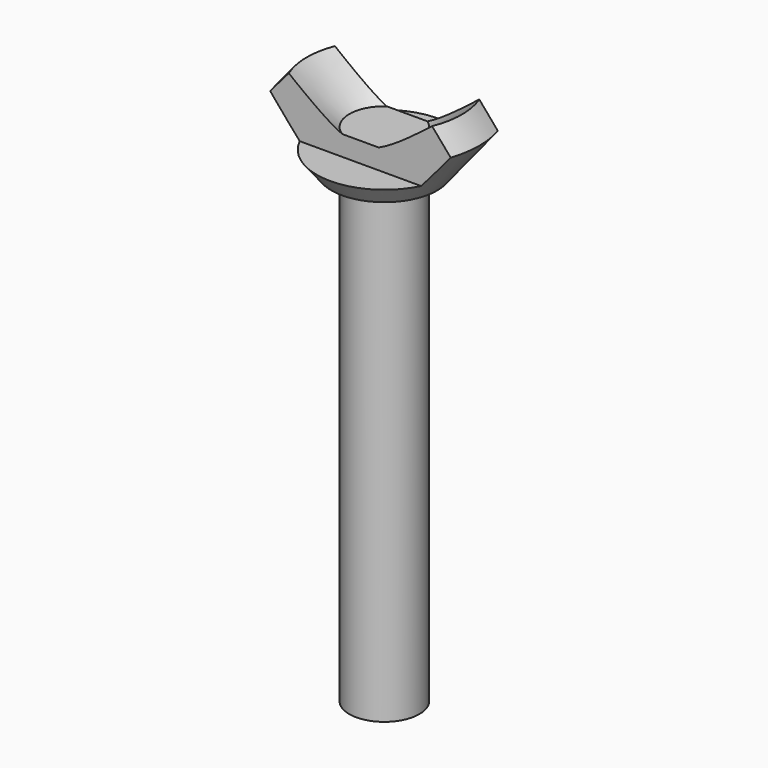
from build123d import *

# Parameters (mm, degrees)
F2_W     = 8.886791
F2_H     = 11.736567
F2_W_2   = 7.621294
F3_DEPTH = 20


with BuildPart() as f1:
    # F0 (on Front) → F1 (revolve)
    with BuildSketch(Plane.XZ):
        Polygon((0, 43.325846), (0, 0), (3, 0), (3, 40), (4.52552, 40), (8.148538, 44.563168), (6.648163, 46.424412), (3, 43.325846), align=None)
    revolve(axis=Axis((0, 0, 21.662923), (0, 0, 1)))

    # F2 (on Right) → F3 (cut, symmetric)
    with BuildSketch(Plane.YZ):
        with Locations((-7.005405, 47.46977)):
            Rectangle(F2_W, F2_H)
        with Locations((6.248638, 47.46977)):
            Rectangle(F2_W_2, F2_H)
    extrude(amount=F3_DEPTH, both=True, mode=Mode.SUBTRACT)


solid = f1.part
